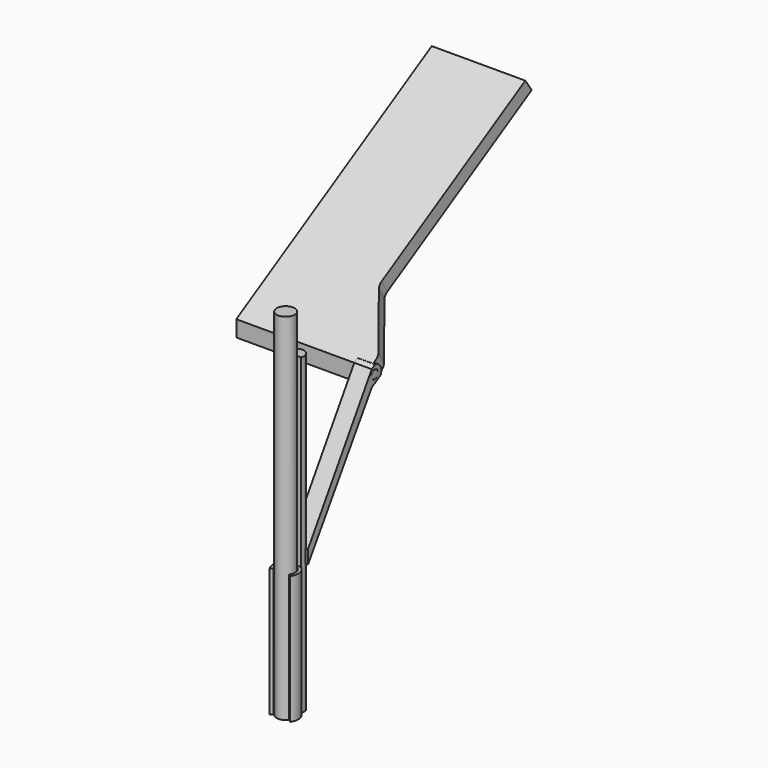
from build123d import *

# Parameters (mm, degrees)
F0_R      = 4.445
F1_DEPTH  = 175.768
F3_DEPTH  = 63.5
F4_W      = 6.35
F4_H      = 1.27
F5_DEPTH  = 64.008
F7_DEPTH  = 154.94
F9_DEPTH  = 3.81
F10_DEPTH = 1.778
F11_DEPTH = 7.62
F13_DEPTH = 58.42
F15_DEPTH = 25.4
F16_R     = 2.15066859
F17_DEPTH = 7.62
F19_DEPTH = 1.016
F20_R     = 2.2206616749
F21_DEPTH = 8.636
F23_R     = 2.6356791451
F24_DEPTH = 0.8128


with BuildPart() as f1:
    # F0 (on Top) → F1 (new body)
    with BuildSketch(Plane.XY):
        Circle(F0_R)
    extrude(amount=F1_DEPTH)


with BuildPart() as f3:
    # F2 (on face) → F3 (new body)
    with BuildSketch(Plane(origin=(0, 0, 0), x_dir=(1, 0, 0), z_dir=(0, 0, -1))):
        with BuildLine():
            ThreePointArc((3.8429933595, 2.6908929196), (0, -4.691428638), (-3.8429933595, 2.6908929196))
            Line((-3.8429933595, 2.6908929196), (-5.0752714678, 3.5537433402))
            ThreePointArc((-5.0752714678, 3.5537433402), (0, -6.1957624389), (5.0752714678, 3.5537433402))
            Line((5.0752714678, 3.5537433402), (3.8429933595, 2.6908929196))
        make_face()
    extrude(amount=-F3_DEPTH)

    # F4 (on face) → F5 (join)
    with BuildSketch(Plane(origin=(0, 0, 0), x_dir=(1, 0, 0), z_dir=(0, 0, -1))):
        with Locations((0, -5.715)):
            Rectangle(F4_W, F4_H)
    extrude(amount=-F5_DEPTH)

    # F6 (on face) → F7 (join)
    with BuildSketch(Plane(origin=(0, 0, 0), x_dir=(1, 0, 0), z_dir=(0, 0, -1))):
        with BuildLine():
            Line((3.7168582398, -4.9570593122), (-3.7168582398, -4.9570593122))
            ThreePointArc((-3.7168582398, -4.9570593122), (0, -10.3192970328), (3.7168582398, -4.9570593122))
        make_face()
    extrude(amount=-F7_DEPTH)

    # F8 (on Right) → F9 (join)
    with BuildSketch(Plane.YZ):
        Polygon((8.0682581894, 70.3517281412), (8.0682581894, 69.85), (11.4986350816, 69.85), (44.7982604746, 123.1405403205), (44.910294561, 123.6630477465), (46.7540288574, 132.2619027237), align=None)
        Polygon((11.4986350816, 69.85), (8.0682581894, 69.85), (8.0682581894, 64.3602494117), align=None)
        Polygon((44.910294561, 123.6630477465), (44.7982604746, 123.1405403205), (45.2457986568, 123.8567511265), align=None)
        Polygon((47.2015670395, 132.9781135297), (46.7540288574, 132.2619027237), (44.910294561, 123.6630477465), (45.2457986568, 123.8567511265), (172.1351875918, 197.1163739855), (168.1500438015, 202.8077491463), align=None)
    extrude(amount=-F9_DEPTH)

    # F10 (add): a face of the model
    f10_faces = [f3.faces().sort_by_distance(p)[0] for p in [
        (-3.6940575542, 8.0682581894, 67.3559887764),
    ]]
    extrude(f10_faces, amount=F10_DEPTH)

    # F11 (add): a face of the model
    f11_faces = [f3.faces().sort_by_distance(p)[0] for p in [
        (-3.81, 92.7369745299, 151.4872184487),
    ]]
    extrude(f11_faces, amount=-F11_DEPTH)

    # F12 (on face) → F13 (join)
    with BuildSketch(Plane(origin=(-3.81, 0, 0), x_dir=(0, -1, 0), z_dir=(-1, 0, 0))):
        Polygon((-47.2015670395, 124.9859145288), (-47.2015670395, 132.9781135297), (-168.1500438015, 202.8077491463), (-172.1351875918, 197.1163739855), align=None)
    extrude(amount=F13_DEPTH)

    # F14 (on face) → F15 (cut)
    with BuildSketch(Plane(origin=(0, -45.7808204722, 79.29470707), x_dir=(1, 0, 0), z_dir=(0, -0.5, 0.8660254038))):
        with BuildLine():
            Line((3.81, 111.6199528264), (3.81, 107.3668129195))
            Line((3.81, 107.3668129195), (9.2347897589, 107.3668129195))
            Line((9.2347897589, 107.3668129195), (9.2347897589, 263.3712887764))
            Line((9.2347897589, 263.3712887764), (-15.9274190664, 263.3712887764))
            Line((-15.9274190664, 263.3712887764), (-15.9274190664, 144.3743298364))
            ThreePointArc((-15.9274190664, 144.3743298364), (-15.6433904123, 142.496434304), (-14.816713041, 140.7865312569))
            Line((-14.816713041, 140.7865312569), (2.6992939746, 115.207751406))
            ThreePointArc((2.6992939746, 115.207751406), (3.5259713459, 113.4978483588), (3.81, 111.6199528264))
        make_face()
    extrude(amount=-F15_DEPTH, mode=Mode.SUBTRACT)

    # F16 (on face) → F17 (cut)
    with BuildSketch(Plane.YZ.offset(3.81)):
        with BuildLine():
            Line((45.2457986568, 123.8567511265), (50.662290723, 126.983964279))
            Line((50.662290723, 126.983964279), (52.8034219639, 128.2201469773))
            ThreePointArc((52.8034219639, 128.2201469773), (53.1800952343, 130.1866640606), (52.6152560846, 132.1076088611))
            ThreePointArc((52.6152560846, 132.1076088611), (51.2340886635, 133.5572463095), (49.3426982804, 134.214296228))
            Line((49.3426982804, 134.214296228), (47.2015670395, 132.9781135297))
            Line((47.2015670395, 132.9781135297), (8.0682581894, 70.3517281412))
            Line((8.0682581894, 70.3517281412), (7.4632021087, 70.3517281412))
            Line((7.4632021087, 70.3517281412), (7.4632021087, 64.3602494117))
            Line((7.4632021087, 64.3602494117), (8.0682581894, 64.3602494117))
            Line((8.0682581894, 64.3602494117), (45.2457986568, 123.8567511265))
        make_face()
        with Locations((48.9319288813, 129.9810389044)):
            Circle(F16_R, mode=Mode.SUBTRACT)
    extrude(amount=-F17_DEPTH, mode=Mode.SUBTRACT)

    # F18 (on face) → F19 (join)
    with BuildSketch(Plane.YZ.offset(3.81)):
        Polygon((47.3563535039, 128.5089395645), (48.3034902488, 127.9183757905), (49.4190166178, 127.8805009321), (50.4040282211, 128.405463527), (50.9945919952, 129.3526002719), (51.0324668536, 130.4681266409), (50.5075042587, 131.4531382442), (49.5603675137, 132.0437020183), (48.4448411448, 132.0815768767), (47.4598295414, 131.5566142817), (46.8692657674, 130.6094775368), (46.831390909, 129.4939511678), align=None)
    extrude(amount=F19_DEPTH)


with BuildPart() as f21:
    # F20 (on face) → F21 (new body)
    with BuildSketch(Plane.YZ.offset(-3.81)):
        with BuildLine():
            Line((7.7726580203, 63.8692975044), (47.2015670395, 124.9859145288))
            Line((47.2015670395, 124.9859145288), (52.7648042535, 128.2211152175))
            ThreePointArc((52.7648042535, 128.2211152175), (52.5783027117, 132.1005253732), (49.2996439256, 134.1825922658))
            Line((49.2996439256, 134.1825922658), (47.2015670395, 132.9781135297))
            Line((47.2015670395, 132.9781135297), (7.7726580203, 70.6091150641))
            Line((7.7726580203, 70.6091150641), (7.7726580203, 63.8692975044))
        make_face()
        with Locations((48.9319288813, 129.9810389044)):
            Circle(F20_R, mode=Mode.SUBTRACT)
    extrude(amount=F21_DEPTH)

    # F23 (on face) → F24 (join)
    with BuildSketch(Plane.YZ.offset(4.826)):
        with Locations((48.9191375673, 129.976734519)):
            Circle(F23_R)
        Polygon((46.7552430928, 129.5690089464), (46.7980019748, 130.5446773767), (46.8161813915, 130.6936889887), (47.4068336189, 131.6044181585), (48.4277531505, 132.1440786123), (49.555350095, 132.1118175983), (50.5623705685, 131.5243542194), (51.1070229113, 130.5143237114), (51.0554239154, 129.3424218893), (50.4859872162, 128.4084618092), (49.4742281735, 127.816349268), (48.2670143247, 127.8623491526), (47.3063886166, 128.4577548504), align=None, mode=Mode.SUBTRACT)
    extrude(amount=-F24_DEPTH)


solid = Compound([f1.part, f3.part, f21.part])
